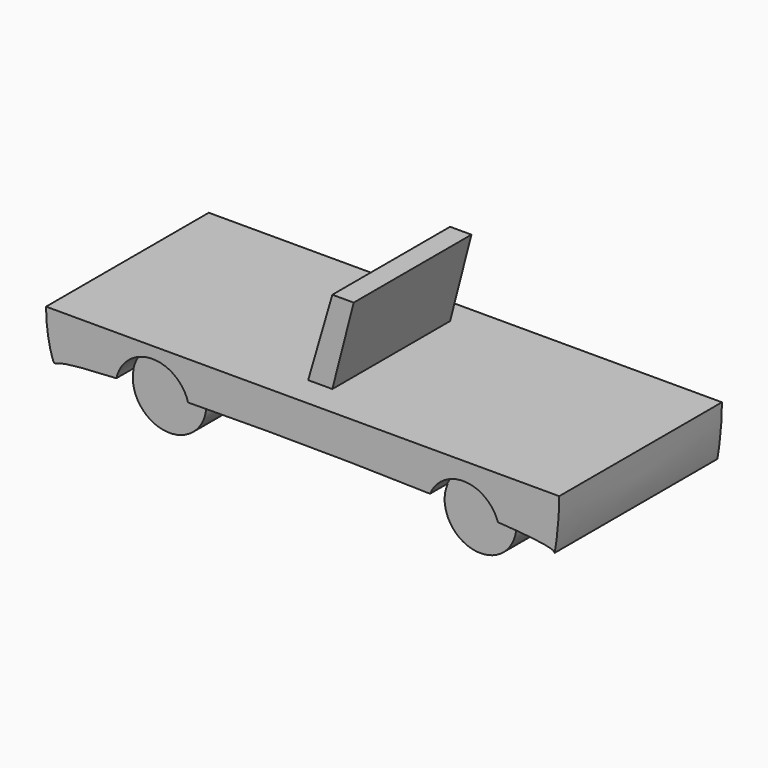
from build123d import *

# Parameters (mm, degrees)
F1_DEPTH  = 38.608
F2_R      = 7.0352957833
F2_R_2    = 6.8942098371
F3_DEPTH  = 4.064
F4_R      = 6.9061369056
F4_R_2    = 7.0032523294
F5_DEPTH  = 25.4
F6_R      = 6.7974062875
F6_R_2    = 7.0670792708
F7_DEPTH  = 9.906
F8_R      = 7.0839194792
F8_R_2    = 7.3155698598
F9_DEPTH  = 2.032
F10_W     = 110.3830970824
F10_H     = 64.0626847744
F11_DEPTH = 38.354
F13_DEPTH = 32.766
F14_DEPTH = 4.826


with BuildPart() as f1:
    # F0 (on Front) → F1 (new body)
    with BuildSketch(Plane.XZ):
        with BuildLine():
            add(Edge.make_bspline(
                [(-50.9708374739, -8.6643658578), (-51.6764241048, -7.2147838565), (-56.6680468011, 14.1310014328), (-32.778270088, 7.7855221601), (-20.5101780593, 5.1444671117)],
                knots=[0, 0, 0, 0, 0.1036872314, 0.2554765371, 0.2554765371, 0.2554765371, 0.2554765371], degree=3))
            add(Edge.make_bspline(
                [(-38.9630969329, -7.6357090919), (-43.9678175587, -7.8572834082), (-50.5312216285, -8.3840487695), (-50.731892562, -9.1552626922), (-50.9708374739, -8.6643658578)],
                knots=[0.9194991242, 0.9194991242, 0.9194991242, 0.9194991242, 0.9648866131, 1, 1, 1, 1], degree=3))
            ThreePointArc((-38.9630969329, -7.6357090919), (-32.3483311959, -2.2197751265), (-25.44116412, -7.2574838775))
            add(Edge.make_bspline(
                [(20.6231035978, -7.5755302185), (6.6053154805, -7.1395050723), (-11.181431197, -7.0257595254), (-25.44116412, -7.2574838775)],
                knots=[0.7863333046, 0.7863333046, 0.7863333046, 0.7863333046, 0.8846213572, 0.8846213572, 0.8846213572, 0.8846213572], degree=3))
            ThreePointArc((20.6231035978, -7.5755302185), (27.1708481143, -3.481880581), (33.3361074687, -8.1316658126))
            add(Edge.make_bspline(
                [(17.1256586909, 4.1968021542), (27.8250281811, 7.1607071234), (49.2082024264, 19.0682921332), (44.0006654599, -11.0600429847), (44.295477565, -9.0799760137), (39.1228140151, -8.4876956386), (33.3361074687, -8.1316658126)],
                knots=[0.4242180071, 0.4242180071, 0.4242180071, 0.4242180071, 0.5659379372, 0.682254532, 0.6992723243, 0.7528885146, 0.7528885146, 0.7528885146, 0.7528885146], degree=3))
            add(Edge.make_bspline(
                [(5.3475378081, 2.2527588984), (9.2067942373, 2.4702699417), (13.0919783606, 3.0794049855), (17.1256586909, 4.1968021542)],
                knots=[0.3707893546, 0.3707893546, 0.3707893546, 0.3707893546, 0.4242180071, 0.4242180071, 0.4242180071, 0.4242180071], degree=3))
            add(Edge.make_bspline(
                [(-10.6273861602, 3.2551616229), (-5.1427583305, 2.3888725145), (0.0782220525, 1.9557756871), (5.3475378081, 2.2527588984)],
                knots=[0.2978394365, 0.2978394365, 0.2978394365, 0.2978394365, 0.3707893546, 0.3707893546, 0.3707893546, 0.3707893546], degree=3))
            add(Edge.make_bspline(
                [(-20.5101780593, 5.1444671117), (-17.0862744645, 4.4073746727), (-13.8123758552, 3.7582261824), (-10.6273861602, 3.2551616229)],
                knots=[0.2554765371, 0.2554765371, 0.2554765371, 0.2554765371, 0.2978394365, 0.2978394365, 0.2978394365, 0.2978394365], degree=3))
        make_face()
        with BuildLine():
            Line((-15.6364720315, 12.861168012), (-20.5101780593, 5.1444671117))
            add(Edge.make_bspline(
                [(-20.5101780593, 5.1444671117), (-17.0862744645, 4.4073746727), (-13.8123758552, 3.7582261824), (-10.6273861602, 3.2551616229)],
                knots=[0.2554765371, 0.2554765371, 0.2554765371, 0.2554765371, 0.2978394365, 0.2978394365, 0.2978394365, 0.2978394365], degree=3))
            Line((-10.6273861602, 3.2551616229), (-10.6273861602, 12.1297687412))
            add(Edge.make_bspline(
                [(-10.6273861602, 12.1297687412), (-13.130114225, 12.2753750754), (-15.0305665499, 12.5157869714), (-15.6364720315, 12.861168012)],
                knots=[0.8926757915, 0.8926757915, 0.8926757915, 0.8926757915, 1, 1, 1, 1], degree=3))
        make_face()
        with BuildLine():
            ThreePointArc((-25.44116412, -7.2574838775), (-32.3483311959, -2.2197751265), (-38.9630969329, -7.6357090919))
            add(Edge.make_bspline(
                [(-25.44116412, -7.2574838775), (-30.5012668446, -7.339711857), (-35.1172468017, -7.4654415232), (-38.9630969329, -7.6357090919)],
                knots=[0.8846213572, 0.8846213572, 0.8846213572, 0.8846213572, 0.9194991242, 0.9194991242, 0.9194991242, 0.9194991242], degree=3))
        make_face()
        with BuildLine():
            add(Edge.make_bspline(
                [(-25.44116412, -7.2574838775), (-30.5012668446, -7.339711857), (-35.1172468017, -7.4654415232), (-38.9630969329, -7.6357090919)],
                knots=[0.8846213572, 0.8846213572, 0.8846213572, 0.8846213572, 0.9194991242, 0.9194991242, 0.9194991242, 0.9194991242], degree=3))
            ThreePointArc((-38.9630969329, -7.6357090919), (-32.9430767418, -16.1499223384), (-25.1640756609, -9.205888029))
            ThreePointArc((-25.1640756609, -9.205888029), (-25.2336945272, -8.2218838685), (-25.44116412, -7.2574838775))
        make_face()
        with BuildLine():
            add(Edge.make_bspline(
                [(-15.6364720315, 12.861168012), (-16.2165394584, 13.1918207254), (-13.3961396635, 15.1770892142), (5.9974038069, 14.9185118711), (9.9470952963, 13.1956623398), (9.2735784128, 12.861168012)],
                knots=[0, 0, 0, 0, 0.1027475066, 0.4778646238, 0.598358785, 0.598358785, 0.598358785, 0.598358785], degree=3))
            Line((-15.6364720315, 12.861168012), (-10.6273861602, 12.861168012))
            Line((-10.6273861602, 12.861168012), (5.3475378081, 12.861168012))
            Line((5.3475378081, 12.861168012), (9.2735784128, 12.861168012))
        make_face()
        with BuildLine():
            Line((-10.6273861602, 12.861168012), (-15.6364720315, 12.861168012))
            add(Edge.make_bspline(
                [(-10.6273861602, 12.1297687412), (-13.130114225, 12.2753750754), (-15.0305665499, 12.5157869714), (-15.6364720315, 12.861168012)],
                knots=[0.8926757915, 0.8926757915, 0.8926757915, 0.8926757915, 1, 1, 1, 1], degree=3))
            Line((-10.6273861602, 12.1297687412), (-10.6273861602, 12.861168012))
        make_face()
        with BuildLine():
            Line((5.3475378081, 12.2518344839), (5.3475378081, 2.2527588984))
            add(Edge.make_bspline(
                [(5.3475378081, 2.2527588984), (9.2067942373, 2.4702699417), (13.0919783606, 3.0794049855), (17.1256586909, 4.1968021542)],
                knots=[0.3707893546, 0.3707893546, 0.3707893546, 0.3707893546, 0.4242180071, 0.4242180071, 0.4242180071, 0.4242180071], degree=3))
            Line((17.1256586909, 4.1968021542), (9.2735784128, 12.861168012))
            add(Edge.make_bspline(
                [(9.2735784128, 12.861168012), (8.7626184416, 12.6074056843), (7.311352843, 12.4022011398), (5.3475378081, 12.2518344839)],
                knots=[0.598358785, 0.598358785, 0.598358785, 0.598358785, 0.6897710341, 0.6897710341, 0.6897710341, 0.6897710341], degree=3))
        make_face()
        with BuildLine():
            add(Edge.make_bspline(
                [(9.2735784128, 12.861168012), (8.7626184416, 12.6074056843), (7.311352843, 12.4022011398), (5.3475378081, 12.2518344839)],
                knots=[0.598358785, 0.598358785, 0.598358785, 0.598358785, 0.6897710341, 0.6897710341, 0.6897710341, 0.6897710341], degree=3))
            Line((9.2735784128, 12.861168012), (5.3475378081, 12.861168012))
            Line((5.3475378081, 12.861168012), (5.3475378081, 12.2518344839))
        make_face()
        with BuildLine():
            ThreePointArc((33.3361074687, -8.1316658126), (27.1708481143, -3.481880581), (20.6231035978, -7.5755302185))
            add(Edge.make_bspline(
                [(33.3361074687, -8.1316658126), (29.7264667198, -7.9095809777), (25.3929811931, -7.7238978895), (20.6231035978, -7.5755302185)],
                knots=[0.7528885146, 0.7528885146, 0.7528885146, 0.7528885146, 0.7863333046, 0.7863333046, 0.7863333046, 0.7863333046], degree=3))
        make_face()
        with BuildLine():
            add(Edge.make_bspline(
                [(33.3361074687, -8.1316658126), (29.7264667198, -7.9095809777), (25.3929811931, -7.7238978895), (20.6231035978, -7.5755302185)],
                knots=[0.7528885146, 0.7528885146, 0.7528885146, 0.7528885146, 0.7863333046, 0.7863333046, 0.7863333046, 0.7863333046], degree=3))
            ThreePointArc((20.6231035978, -7.5755302185), (25.4874118422, -16.9601110372), (33.6866344744, -10.2889342245))
            ThreePointArc((33.6866344744, -10.2889342245), (33.5984318244, -9.1961538048), (33.3361074687, -8.1316658126))
        make_face()
    extrude(amount=F1_DEPTH)

    # F2 (on face) → F3 (cut)
    with BuildSketch(Plane.XZ.offset(38.608)):
        with Locations((-32.1529209622, -9.205888029)):
            Circle(F2_R)
        with Locations((26.873070747, -10.2889342245)):
            Circle(F2_R_2)
        with BuildLine():
            add(Edge.make_bspline(
                [(-25.44116412, -7.2574838775), (-25.4251253567, -7.2572232435), (-25.4090821313, -7.2569630465), (-25.3930344544, -7.2567032865)],
                knots=[0.3708551799, 0.3708551799, 0.3708551799, 0.3708551799, 0.3709657302, 0.3709657302, 0.3709657302, 0.3709657302], degree=3))
            ThreePointArc((-25.3930344544, -7.2567032865), (-32.3497452329, -2.1733460302), (-39.011246385, -7.6378449323))
            add(Edge.make_bspline(
                [(-39.011246385, -7.6378449323), (-38.9952100188, -7.6371322084), (-38.9791601935, -7.6364202617), (-38.9630969329, -7.6357090919)],
                knots=[0.3358317362, 0.3358317362, 0.3358317362, 0.3358317362, 0.3359774128, 0.3359774128, 0.3359774128, 0.3359774128], degree=3))
            ThreePointArc((-38.9630969329, -7.6357090919), (-31.9575107286, -16.1920009316), (-25.44116412, -7.2574838775))
        make_face()
    extrude(amount=-F3_DEPTH, mode=Mode.SUBTRACT)

    # F4 (on face) → F5 (cut)
    with BuildSketch(Plane(origin=(0, 0, 0), x_dir=(-1, 0, 0), z_dir=(0, 1, 0))):
        with Locations((-26.873070747, -10.2889342245)):
            Circle(F4_R)
        with Locations((32.1529209622, -9.205888029)):
            Circle(F4_R_2)
    extrude(amount=-F5_DEPTH, mode=Mode.SUBTRACT)

    # F6 (on Front) → F7 (join)
    with BuildSketch(Plane.XZ):
        with Locations((26.8730726093, -9.8827918991)):
            Circle(F6_R)
        with Locations((-32.1529209614, -9.2058880255)):
            Circle(F6_R_2)
    extrude(amount=F7_DEPTH)

    # F8 (on face) → F9 (cut)
    with BuildSketch(Plane(origin=(0, 0, 0), x_dir=(-1, 0, 0), z_dir=(0, 1, 0))):
        with Locations((-26.8730726093, -9.8827918991)):
            Circle(F8_R)
        with Locations((32.1529209614, -9.2058880255)):
            Circle(F8_R_2)
    extrude(amount=-F9_DEPTH, mode=Mode.SUBTRACT)

    # F10 (on Top) → F11 (cut)
    with BuildSketch(Plane.XY):
        with Locations((-1.9767750055, -32.0313423872)):
            Rectangle(F10_W, F10_H)
    extrude(amount=F11_DEPTH, mode=Mode.SUBTRACT)

    # F12 (on Front) → F13 (join)
    with BuildSketch(Plane.XZ):
        Polygon((-2.6813955046, 15.7656725496), (-7.2728772648, 0), (-2.6813955046, 0), (1.3711813372, 15.7656725496), align=None)
    extrude(amount=F13_DEPTH)

    # F12 (on Front) → F14 (cut)
    with BuildSketch(Plane.XZ):
        Polygon((-2.6813955046, 15.7656725496), (-7.2728772648, 0), (-2.6813955046, 0), (1.3711813372, 15.7656725496), align=None)
    extrude(amount=F14_DEPTH, mode=Mode.SUBTRACT)


solid = f1.part
